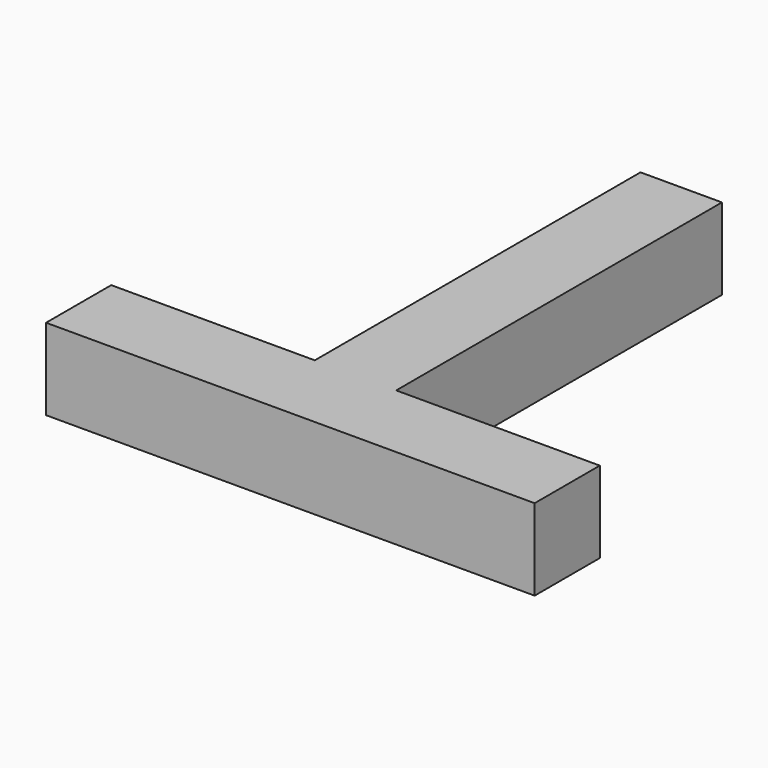
from build123d import *

# Parameters (mm, degrees)
BOX001_W     = 12.7
BOX001_H     = 63.5
BOX001_DEPTH = 12.7
BOX002_W     = 76.2
BOX002_H     = 12.7
BOX002_DEPTH = 12.7


with BuildPart() as cube:
    # Box001 → Box001 (new body)
    with BuildSketch(Plane.XY.offset(406.4)):
        with Locations((6.35, 31.75)):
            Rectangle(BOX001_W, BOX001_H)
    extrude(amount=BOX001_DEPTH)


with BuildPart() as fusion:
    # Box002 → Box002 (new body)
    with BuildSketch(Plane(origin=(-31.75, -12.7, 406.4), x_dir=(1, 0, 0), z_dir=(0, 0, 1))):
        with Locations((38.1, 6.35)):
            Rectangle(BOX002_W, BOX002_H)
    extrude(amount=BOX002_DEPTH)

    # Fusion: union Cube
    add(cube.part)


solid = fusion.part
